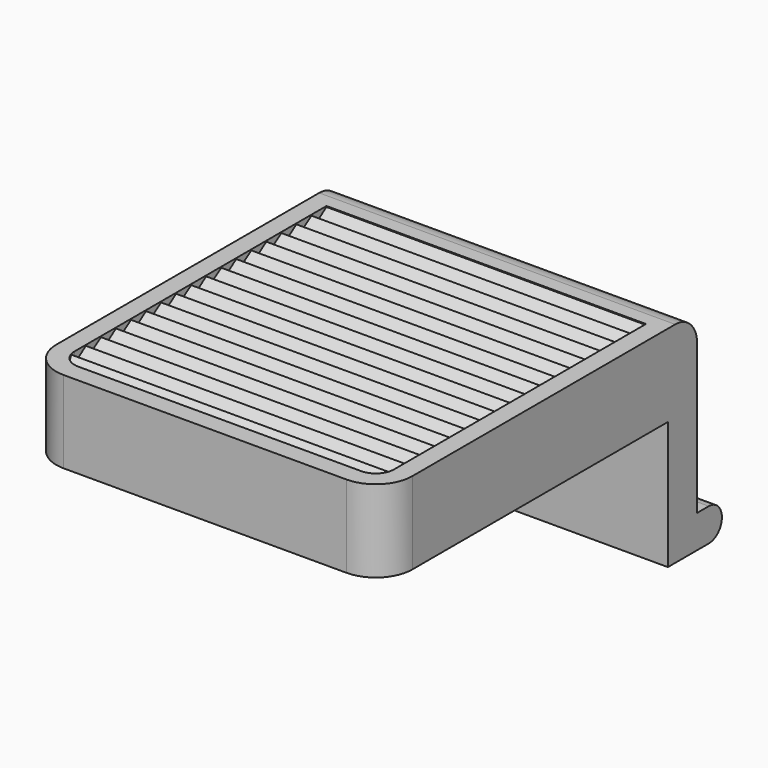
from build123d import *

# Parameters (mm, degrees)
PAD_DEPTH           = 9.75
FILLET_R            = 2
POCKET_DEPTH        = 0.5
PAD001_DEPTH        = 17.499961
LINEARPATTERN_COUNT = 18
LINEARPATTERN_PITCH = 1.029412
FILLET001_R         = 1.5


with BuildPart() as part:
    # Sketch → Pad (new body, symmetric)
    with BuildSketch(Plane.YZ):
        with BuildLine():
            Line((0, 0), (21.5, 0))
            Line((21.5, 0), (21.5, -9.7))
            Line((21.5, -9.7), (22.3, -9.7))
            ThreePointArc((22.3, -11.5), (23.2, -10.6), (22.3, -9.7))
            Line((22.3, -11.5), (19.5, -11.5))
            Line((19.5, -11.5), (19.5, -4.5))
            Line((19.5, -4.5), (0, -4.5))
            Line((0, -4.5), (0, 0))
        make_face()
    extrude(amount=PAD_DEPTH, both=True)

    # Fillet
    fillet_edges = [part.edges().sort_by_distance(p)[0] for p in [
        (9.75, 0, -2.25),
        (-9.75, 0, -2.25),
    ]]
    fillet(fillet_edges, radius=FILLET_R)

    # Sketch001 (on Face1 of Fillet) → Pocket (cut)
    with BuildSketch(Plane(origin=(0, 0, 0), x_dir=(0, -1, 0), z_dir=(0, 0, 1))):
        with BuildLine():
            ThreePointArc((-1, 7.749997), (-1.292892, 8.457106), (-2, 8.75))
            Line((-19.25, 8.75), (-2, 8.75))
            Line((-19.25, 8.75), (-19.25, -8.749961))
            Line((-19.25, -8.749961), (-2, -8.749961))
            ThreePointArc((-2, -8.749961), (-1.292922, -8.45708), (-1.000039, -7.750003))
            Line((-1, 7.749997), (-1.000039, -7.750003))
        make_face()
    extrude(amount=-POCKET_DEPTH, mode=Mode.SUBTRACT)

    # Sketch002 (on Face11 of Pocket) → Pad001 (join)
    with BuildSketch(Plane.YZ.offset(-8.749961)):
        Polygon((18.220588, -0.05), (18.220588, -0.5), (19.25, -0.5), (19.25, -0.05), (18.735294, -0.4), align=None)
    pad001 = extrude(amount=PAD001_DEPTH)

    # LinearPattern: Pad001 ×18
    with Locations(*[(0, -i * LINEARPATTERN_PITCH, 0) for i in range(1, LINEARPATTERN_COUNT)]):
        add(pad001)

    # Fillet001
    fillet001_edges = [part.edges().sort_by_distance(p)[0] for p in [
        (0, 21.5, 0),
    ]]
    fillet(fillet001_edges, radius=FILLET001_R)


solid = part.part
